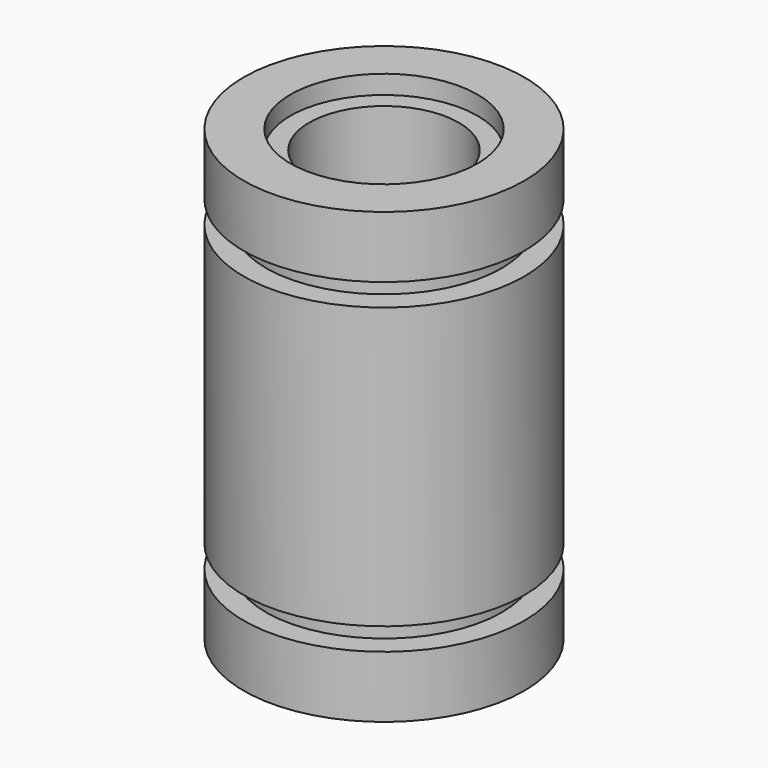
from build123d import *


with BuildPart() as part:
    # Sketch → Revolution (revolve)
    with BuildSketch(Plane.XZ):
        Polygon((4, 1), (4, 23), (5, 23), (5, 24), (7.5, 24), (7.5, 20.7), (6.3, 20.7), (6.3, 19.5), (7.5, 19.5), (7.5, 4.5), (6.3, 4.5), (6.3, 3.3), (7.5, 3.3), (7.5, 0), (5, 0), (5, 1), align=None)
    revolve(axis=Axis((0, 0, 0), (0, 0, 1)))


solid = part.part
